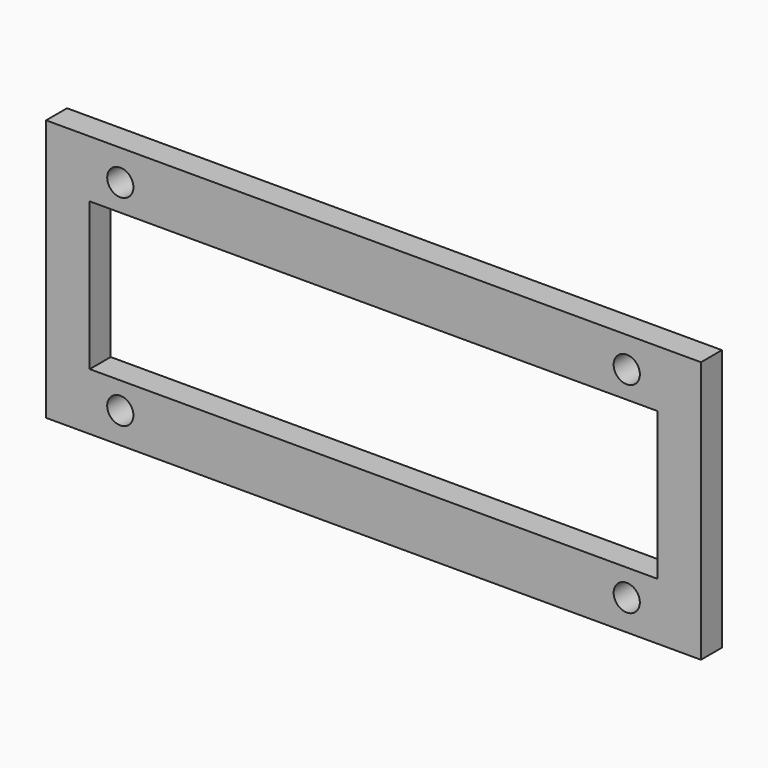
from build123d import *

# Parameters (mm, degrees)
F0_W     = 75
F0_H     = 30
F0_R     = 1.5
F0_W_2   = 65
F0_H_2   = 16.915472
F1_DEPTH = 3


with BuildPart() as f1:
    # F0 (on Front) → F1 (new body)
    with BuildSketch(Plane.XZ):
        Rectangle(F0_W, F0_H)
        with Locations((-29, -11.5)):
            Circle(F0_R, mode=Mode.SUBTRACT)
        with Locations((29, -11.5)):
            Circle(F0_R, mode=Mode.SUBTRACT)
        with Locations((-29, 11.5)):
            Circle(F0_R, mode=Mode.SUBTRACT)
        Rectangle(F0_W_2, F0_H_2, mode=Mode.SUBTRACT)
        with Locations((29, 11.5)):
            Circle(F0_R, mode=Mode.SUBTRACT)
    extrude(amount=F1_DEPTH)


solid = f1.part
